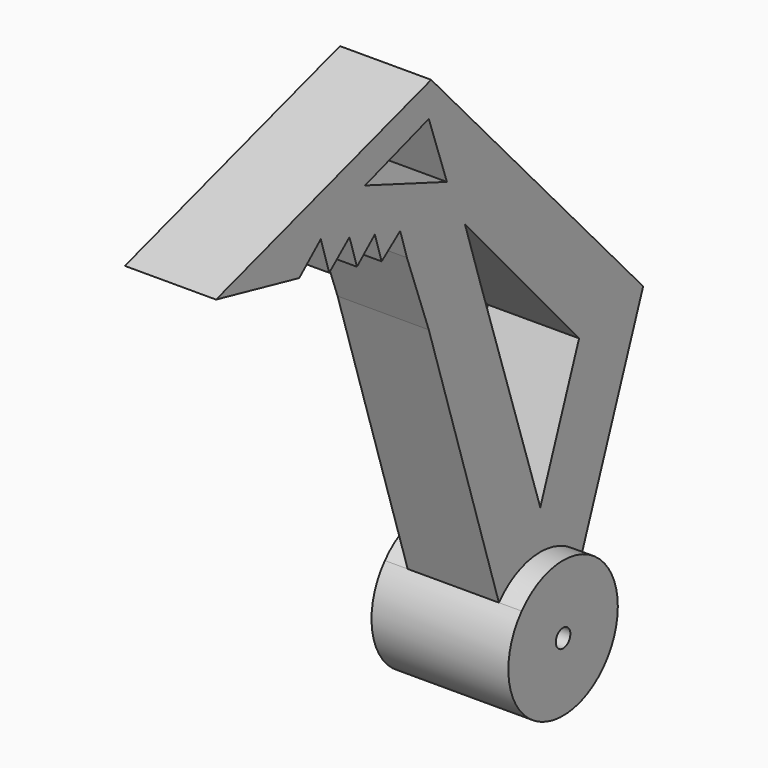
from build123d import *

# Parameters (mm, degrees)
F0_R     = 1.27
F1_DEPTH = 9.525
F2_DEPTH = 6.35


with BuildPart() as f1:
    # F0 (on Right) → F1 (new body, symmetric)
    with BuildSketch(Plane.YZ):
        with BuildLine():
            ThreePointArc((-7.199729, 6.236147), (-3.327777, -8.92477), (9.525, 0))
            ThreePointArc((9.525, 0), (8.919603, 3.341602), (7.180369, 6.258429))
            ThreePointArc((7.180369, 6.258429), (-0.014759, 9.524989), (-7.199729, 6.236147))
        make_face()
        Circle(F0_R, mode=Mode.SUBTRACT)
    extrude(amount=F1_DEPTH, both=True)

    # F0 (on Right) → F2 (join, symmetric)
    with BuildSketch(Plane.YZ):
        with BuildLine():
            ThreePointArc((-7.199729, 6.236147), (-0.014759, 9.524989), (7.180369, 6.258429))
            Line((7.180369, 6.258429), (13.829825, 23.957072))
            Line((13.829825, 23.957072), (17.903983, 34.801126))
            Line((17.903983, 34.801126), (-18.993251, 75.119182))
            Line((-18.993251, 75.119182), (-56.423347, 63.391089))
            Line((-56.423347, 63.391089), (-41.950375, 60.147148))
            Line((-41.950375, 60.147148), (-38.207367, 63.391089))
            Line((-38.207367, 63.391089), (-36.728468, 58.671199))
            Line((-36.728468, 58.671199), (-33.208895, 61.61258))
            Line((-33.208895, 61.61258), (-31.90448, 57.449549))
            Line((-31.90448, 57.449549), (-28.797716, 60.147148))
            Line((-28.797716, 60.147148), (-27.610865, 56.359325))
            Line((-27.610865, 56.359325), (-24.386536, 58.789425))
            Line((-24.386536, 58.789425), (-23.207981, 55.028077))
            Line((-23.207981, 55.028077), (-19.397542, 44.635847))
            Line((-19.397542, 44.635847), (-7.199729, 6.236147))
        make_face()
        Polygon((-30.50116, 66.842455), (-19.397542, 70.495695), (-16.252705, 61.489249), align=None, mode=Mode.SUBTRACT)
        Polygon((0, 14.982579), (-10.09386, 45.661755), (-13.11075, 55.028077), (6.752282, 32.954909), align=None, mode=Mode.SUBTRACT)
    extrude(amount=F2_DEPTH, both=True)


solid = f1.part
